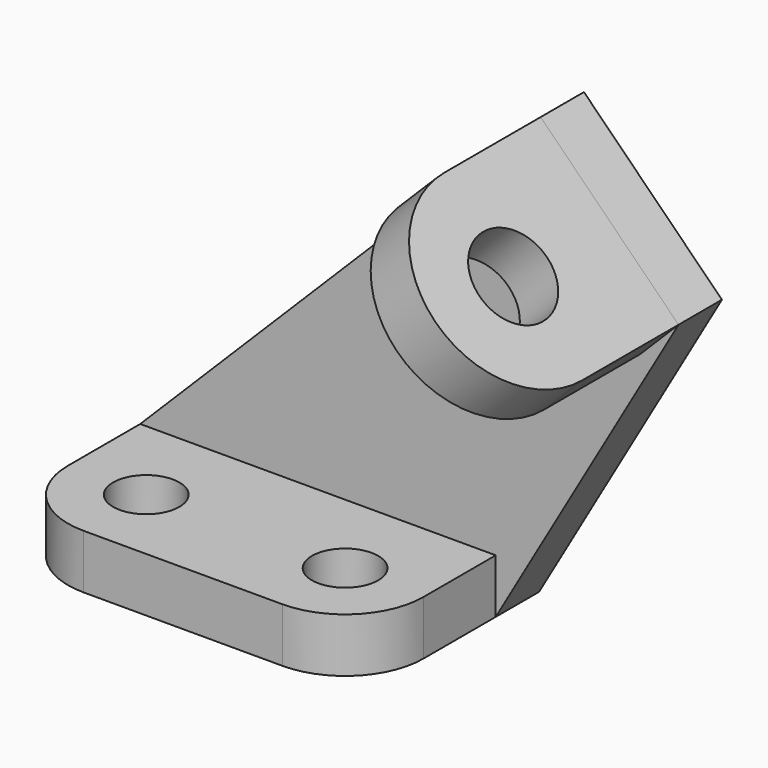
from build123d import *

# Parameters (mm, degrees)
F0_R     = 5.5
F1_DEPTH = 9
F3_DEPTH = 9
F4_R     = 7
F5_DEPTH = 9


with BuildPart() as f1:
    # F0 (on Top) → F1 (new body)
    with BuildSketch(Plane.XY):
        with BuildLine():
            ThreePointArc((-13, 13), (-9.192388, 3.807612), (0, 0))
            Line((0, 0), (33, 0))
            ThreePointArc((33, 0), (42.192388, 3.807612), (46, 13))
            Line((46, 13), (46, 37))
            Line((46, 37), (-13, 37))
            Line((-13, 37), (-13, 13))
        make_face()
        with Locations((0, 13)):
            Circle(F0_R, mode=Mode.SUBTRACT)
        with Locations((33, 13)):
            Circle(F0_R, mode=Mode.SUBTRACT)
    extrude(amount=F1_DEPTH)

    # F2 (on face) → F3 (join)
    with BuildSketch(Plane(origin=(0, 37, 0), x_dir=(-1, 0, 0), z_dir=(0, 1, 0))):
        Polygon((-76.34141, 52.552863), (-46, 0), (-46, 9), (13, 9), (-53.447137, 75.447137), align=None)
    extrude(amount=-F3_DEPTH)

    # F4 (on face) → F5 (join)
    with BuildSketch(Plane(origin=(64.447137, 0, 64.447137), x_dir=(0, 1, 0), z_dir=(0.707107, 0, 0.707107))):
        with BuildLine():
            Line((28, -16.821042), (28, 15.556349))
            Line((28, 15.556349), (8, 15.556349))
            ThreePointArc((8, 15.556349), (-8.188696, -0.632347), (8, -16.821042))
            Line((8, -16.821042), (28, -16.821042))
        make_face()
        with Locations((8, -0.632347)):
            Circle(F4_R, mode=Mode.SUBTRACT)
    extrude(amount=-F5_DEPTH)


solid = f1.part
